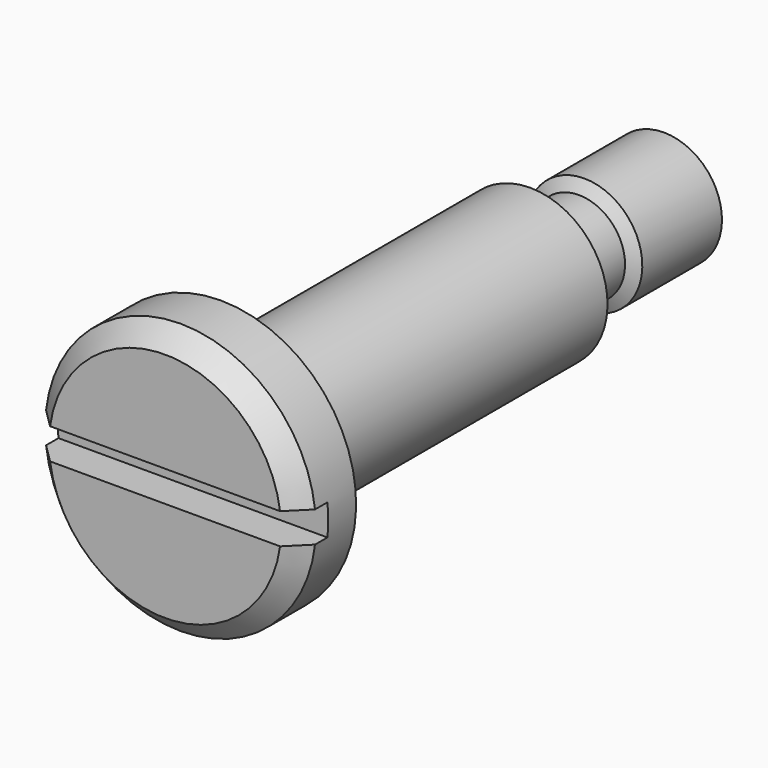
from build123d import *

# Parameters (mm, degrees)
SKETCH001_W  = 0.8
SKETCH001_H  = 7
POCKET_DEPTH = 0.9


with BuildPart() as part:
    # Sketch → Revolution (revolve)
    with BuildSketch(Plane.YZ):
        Polygon((0, 0), (0, 3), (0.5, 3.5), (1.8, 3.5), (1.8, 2), (11.8, 2), (11.8, 1.195), (13.373908, 1.195), (13.55, 1.5), (16.123908, 1.5), (16.3, 1.195), (16.3, 0), align=None)
    revolve(axis=Axis((0, 0, 0), (0, 1, 0)))

    # Sketch001 → Pocket (cut)
    with BuildSketch(Plane(origin=(0, 0, 0), x_dir=(0, 0, -1), z_dir=(0, -1, 0))):
        Rectangle(SKETCH001_W, SKETCH001_H)
    extrude(amount=-POCKET_DEPTH, mode=Mode.SUBTRACT)


solid = part.part
